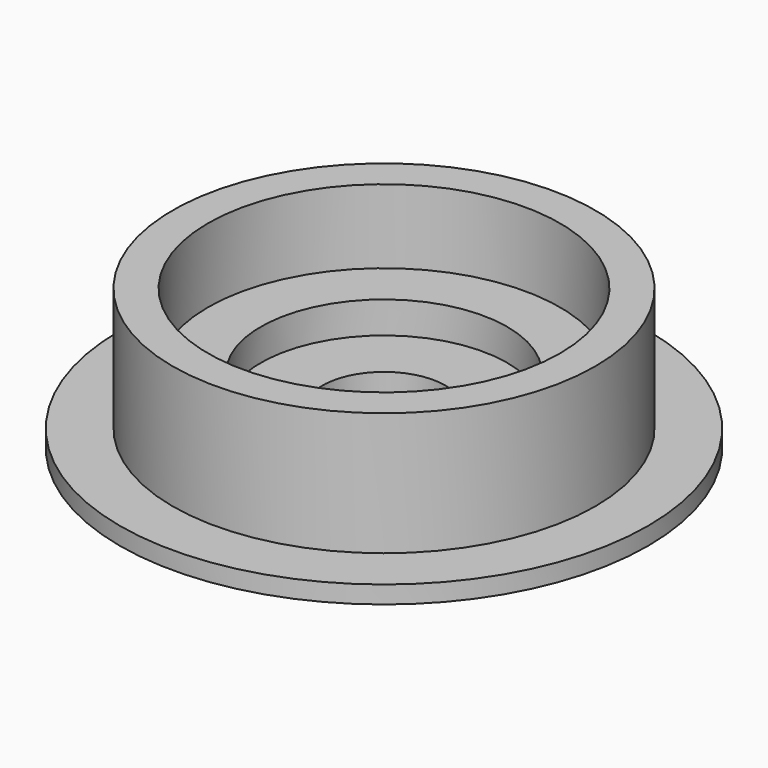
from build123d import *

# Parameters (mm, degrees)
F0_R     = 6
F0_R_2   = 5
F1_DEPTH = 4
F0_R_3   = 7.5
F2_DEPTH = 0.5
F0_R_4   = 3.5
F3_DEPTH = 1.9
F0_R_5   = 1.75
F4_DEPTH = 1


with BuildPart() as f1:
    # F0 (on Top) → F1 (new body)
    with BuildSketch(Plane.XY):
        Circle(F0_R)
        Circle(F0_R_2, mode=Mode.SUBTRACT)
    extrude(amount=F1_DEPTH)

    # F0 (on Top) → F2 (join)
    with BuildSketch(Plane.XY):
        Circle(F0_R_3)
        Circle(F0_R, mode=Mode.SUBTRACT)
    extrude(amount=F2_DEPTH)

    # F0 (on Top) → F3 (join, through all)
    with BuildSketch(Plane.XY):
        Circle(F0_R_2)
        Circle(F0_R_4, mode=Mode.SUBTRACT)
    extrude(amount=F3_DEPTH)

    # F0 (on Top) → F4 (join)
    with BuildSketch(Plane.XY):
        Circle(F0_R_4)
        Circle(F0_R_5, mode=Mode.SUBTRACT)
    extrude(amount=F4_DEPTH)


solid = f1.part
